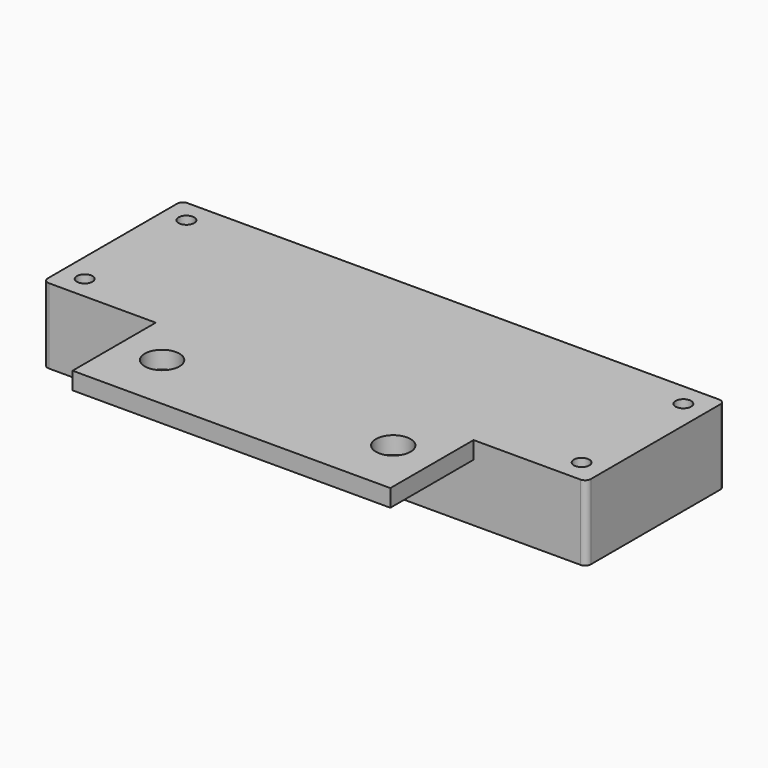
from build123d import *

# Parameters (mm, degrees)
SKETCH001_W          = 94
SKETCH001_H          = 30
PAD_DEPTH            = 13
SKETCH002_R          = 1.35
HOLE_DEPTH           = 25
SKETCH_W             = 82
SKETCH_H             = 18
POCKET_DEPTH         = 10
SKETCH003_W          = 55
SKETCH003_H          = 21
PAD001_DEPTH         = 3
FILLET_R             = 1
SKETCH004_R          = 3
HOLE001_DEPTH        = 25
SKETCH010_W          = 12
SKETCH010_H          = 7.5
POCKET001_DEPTH      = 6
BODY_PLACEMENT_ANGLE = 180


with BuildPart() as part:
    # Sketch001 → Pad (new body)
    with BuildSketch(Plane.XY):
        Rectangle(SKETCH001_W, SKETCH001_H)
    extrude(amount=-PAD_DEPTH)

    # Sketch002 (on Face5 of Pad) → Hole (cut)
    with BuildSketch(Plane.XY):
        with Locations((-43, 11)):
            Circle(SKETCH002_R)
        with Locations((-43, -11)):
            Circle(SKETCH002_R)
        with Locations((43, 11)):
            Circle(SKETCH002_R)
        with Locations((43, -11)):
            Circle(SKETCH002_R)
    extrude(amount=-HOLE_DEPTH, mode=Mode.SUBTRACT)

    # Sketch → Pocket (cut)
    with BuildSketch(Plane.XY):
        Rectangle(SKETCH_W, SKETCH_H)
    extrude(amount=-POCKET_DEPTH, mode=Mode.SUBTRACT)

    # Sketch003 (on Face5 of Pocket) → Pad001 (join)
    with BuildSketch(Plane(origin=(0, 0, -13), x_dir=(1, 0, 0), z_dir=(0, 0, -1))):
        with Locations((0, 22.5)):
            Rectangle(SKETCH003_W, SKETCH003_H)
    extrude(amount=-PAD001_DEPTH)

    # Fillet
    fillet_edges = [part.edges().sort_by_distance(p)[0] for p in [
        (47, -15, -6.5),
        (47, 15, -6.5),
        (-47, 15, -6.5),
        (-47, -15, -6.5),
    ]]
    fillet(fillet_edges, radius=FILLET_R)

    # Sketch004 (on Face22 of Fillet) → Hole001 (cut)
    with BuildSketch(Plane.XY.offset(-10)):
        with Locations((20, -23)):
            Circle(SKETCH004_R)
        with Locations((-20, -23)):
            Circle(SKETCH004_R)
    extrude(amount=-HOLE001_DEPTH, mode=Mode.SUBTRACT)

    # Sketch010 (on Face7 of Hole001) → Pocket001 (cut)
    with BuildSketch(Plane.XZ.offset(15)):
        with Locations((0, -6.25)):
            Rectangle(SKETCH010_W, SKETCH010_H)
    extrude(amount=-POCKET001_DEPTH, mode=Mode.SUBTRACT)


with BuildPart() as part_1:
    # Body placement: moved
    add(part.part.moved(Location((0, 0, -13))).rotate(Axis((0, 0, -13), (0, 1, 0)), BODY_PLACEMENT_ANGLE))


solid = part_1.part
